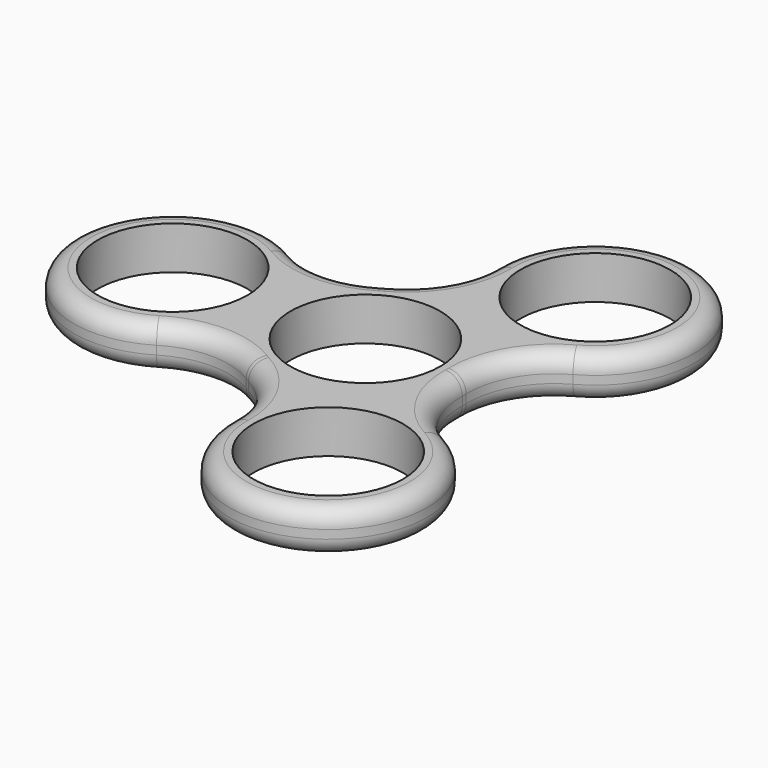
from build123d import *

# Parameters (mm, degrees)
F0_R     = 11.049
F1_DEPTH = 6.35
F3_COUNT = 3
F4_R     = 2.54


with BuildPart() as f1:
    # F0 (on Top) → F1 (new body)
    with BuildSketch(Plane.XY):
        with BuildLine():
            ThreePointArc((-20.8398139535, -12.4668171592), (-14.224, -10.6075277325), (-7.6081860465, -12.4668171592))
            ThreePointArc((-7.6081860465, -12.4668171592), (14.605, 0), (-7.6081860465, 12.4668171592))
            ThreePointArc((-7.6081860465, 12.4668171592), (-14.224, 10.6075277325), (-20.8398139535, 12.4668171592))
            ThreePointArc((-20.8398139535, 12.4668171592), (-43.053, 0), (-20.8398139535, -12.4668171592))
        make_face()
        with Locations((-28.448, 0)):
            Circle(F0_R, mode=Mode.SUBTRACT)
        Circle(F0_R, mode=Mode.SUBTRACT)
    extrude(amount=F1_DEPTH)

    # F3: F1 ×3 about axis
    f3_axis = Axis((0, 0, 9.2122852802), (0, 0, 1))


with BuildPart() as f1_1:
    add(f1.part)
    for i in range(1, F3_COUNT):
        add(f1.part.rotate(f3_axis, i * 360 / F3_COUNT))

    # F4
    f4_edges = [f1_1.edges().sort_by_distance(p)[0] for p in [
        (-2.074388, -17.622109, 6.35),
        (-2.074388, -17.622109, 0),
    ]]
    fillet(f4_edges, radius=F4_R)


solid = f1_1.part
